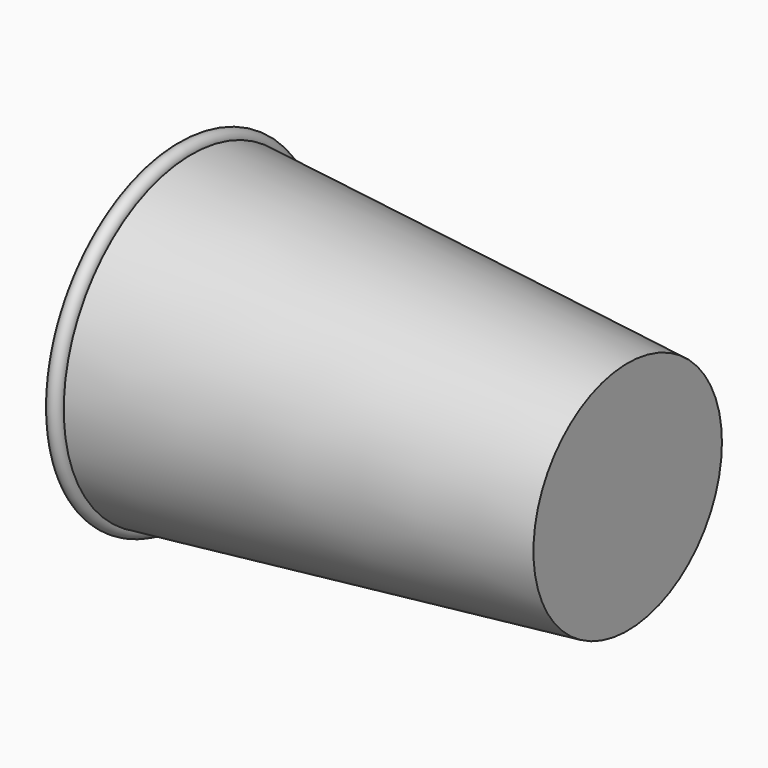
from build123d import *


with BuildPart() as f1:
    # F0 (on Top) → F1 (revolve)
    with BuildSketch(Plane.XY):
        with BuildLine():
            Line((50.011136, 0), (50.011136, 23.5))
            Line((50.011136, 23.5), (-36.995735, 31.856592))
            ThreePointArc((-36.995735, 31.856592), (-39.443261, 33.157206), (-38.632272, 30.506871))
            Line((-38.632272, 30.506871), (48.511136, 22.137165))
            Line((48.511136, 22.137165), (48.511136, 0))
            Line((48.511136, 0), (50.011136, 0))
        make_face()
    revolve(axis=Axis((17.755556, 0, 0), (1, 0, 0)))


solid = f1.part
